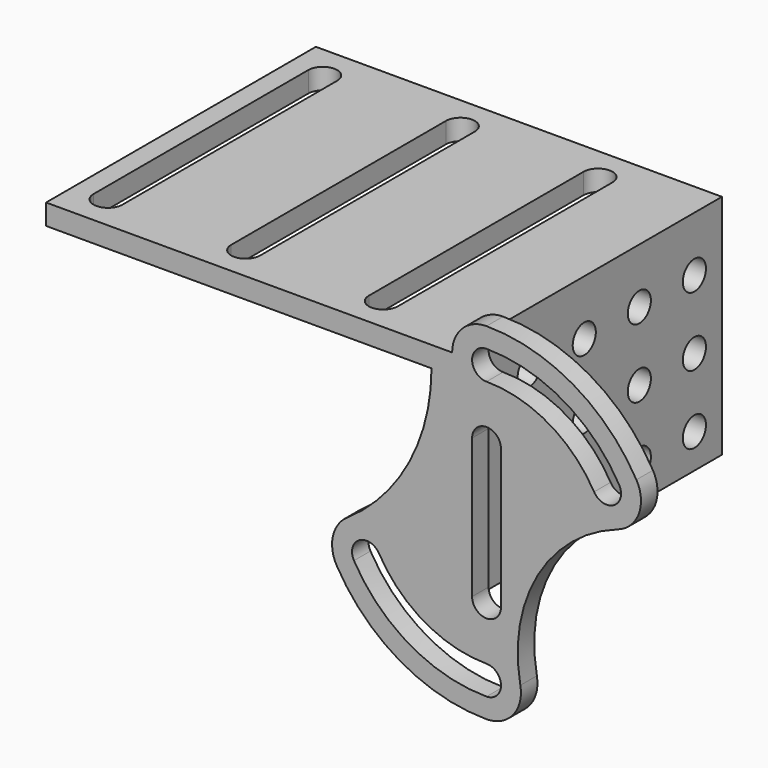
from build123d import *

# Parameters (mm, degrees)
PAD037_DEPTH      = 46
PAD037_DEPTH_BACK = 3
PAD038_DEPTH      = 3
POCKET016_DEPTH   = 10
SKETCH066_R       = 2.1
POCKET023_DEPTH   = 5


with BuildPart() as tentingleg:
    # Sketch054 → Pad037 (new body, two sides)
    with BuildSketch(Plane.XZ) as pad037_sk:
        Polygon((-55, -1), (-5, -1), (1, -1), (1, -31), (3.9999999999, -31), (3.9999999999, -1), (3.9999999999, 2), (-5, 2), (-55, 2), align=None)
    extrude(amount=PAD037_DEPTH)
    extrude(pad037_sk.sketch, amount=-PAD037_DEPTH_BACK)

    # Sketch055 → Pad038 (join)
    with BuildSketch(Plane.XZ):
        with BuildLine():
            ThreePointArc((8.9999999999, -43.2857142857), (12.8523729567, -41.4730678277), (13.9115498355, -37.3494033264))
            ThreePointArc((28.0891318316, -12.7931109807), (16.4349866323, -22.4354486765), (13.9115498355, -37.3494033264))
            ThreePointArc((28.0891318316, -12.7931109807), (31.130741607, -9.8140046459), (30.7743530093, -5.5714285714))
            ThreePointArc((30.7743530093, -5.5714285714), (21.5714285713, 3.6314958666), (8.9999999999, 7))
            ThreePointArc((8.9999999999, 7), (5.464466094, 5.5355339059), (3.9999999999, 2))
            Line((3.9999999999, 2), (1, -1))
            ThreePointArc((-11.2463328898, -24.0732475684), (-2.2513043788, -14.0608903085), (1, -1))
            ThreePointArc((-11.2463328898, -24.0732475684), (-13.3169087301, -27.0931421371), (-12.7743530095, -30.7142857143))
            ThreePointArc((-12.7743530095, -30.7142857143), (-3.5714285715, -39.9172101523), (8.9999999999, -43.2857142857))
        make_face()
        with BuildLine():
            ThreePointArc((6.8999999999, -28.2857142857), (8.9999999999, -30.3857142857), (11.0999999999, -28.2857142857))
            Line((11.0999999999, -28.2857142857), (11.0999999999, -8))
            ThreePointArc((11.0999999999, -8), (8.9999999999, -5.9), (6.8999999999, -8))
            Line((6.8999999999, -8), (6.8999999999, -28.2857142857))
        make_face(mode=Mode.SUBTRACT)
        with BuildLine():
            ThreePointArc((8.9999999999, -40.3857142857), (11.0999999999, -38.2857142857), (8.9999999999, -36.1857142857))
            ThreePointArc((-6.6255726426, -27.1642857143), (-0.0214285715, -33.7684297854), (8.9999999999, -36.1857142857))
            ThreePointArc((-6.6255726426, -27.1642857143), (-9.4942259906, -26.3956323663), (-10.2628793385, -29.2642857143))
            ThreePointArc((-10.2628793385, -29.2642857143), (-2.1214285715, -37.4057364813), (8.9999999999, -40.3857142857))
        make_face(mode=Mode.SUBTRACT)
        with BuildLine():
            ThreePointArc((8.9999999999, 4.1), (6.8999999999, 2), (8.9999999999, -0.1))
            ThreePointArc((24.6255726425, -9.1214285714), (18.0214285713, -2.5172845003), (8.9999999999, -0.1))
            ThreePointArc((24.6255726425, -9.1214285714), (27.4942259904, -9.8900819194), (28.2628793384, -7.0214285714))
            ThreePointArc((28.2628793384, -7.0214285714), (20.1214285713, 1.1200221956), (8.9999999999, 4.1))
        make_face(mode=Mode.SUBTRACT)
    extrude(amount=-PAD038_DEPTH)

    # Sketch056 → Pocket016 (cut, symmetric)
    with BuildSketch(Plane.XY):
        with BuildLine():
            ThreePointArc((-47.9, -2), (-50, 0.1), (-52.1, -2))
            Line((-52.1, -2), (-52.1, -41))
            ThreePointArc((-52.1, -41), (-50, -43.1), (-47.9, -41))
            Line((-47.9, -41), (-47.9, -2))
        make_face()
        with BuildLine():
            ThreePointArc((-27.9, -2), (-30, 0.1), (-32.1, -2))
            Line((-32.1, -2), (-32.1, -41))
            ThreePointArc((-32.1, -41), (-30, -43.1), (-27.9, -41))
            Line((-27.9, -41), (-27.9, -2))
        make_face()
        with BuildLine():
            ThreePointArc((-7.9, -2), (-10, 0.1), (-12.1, -2))
            Line((-12.1, -2), (-12.1, -41))
            ThreePointArc((-12.1, -41), (-10, -43.1), (-7.9, -41))
            Line((-7.9, -41), (-7.9, -2))
        make_face()
    extrude(amount=POCKET016_DEPTH, both=True, mode=Mode.SUBTRACT)

    # Sketch066 (on Face45 of Pocket016) → Pocket023 (cut)
    with BuildSketch(Plane(origin=(3.9999999999, 0, 0), x_dir=(0, 0, 1), z_dir=(1, 0, 0))):
        with Locations((-26, 41)):
            Circle(SKETCH066_R)
        with Locations((-16, 31)):
            Circle(SKETCH066_R)
        with Locations((-16, 21)):
            Circle(SKETCH066_R)
        with Locations((-16, 41)):
            Circle(SKETCH066_R)
        with Locations((-6, 31)):
            Circle(SKETCH066_R)
        with Locations((-6, 41)):
            Circle(SKETCH066_R)
        with Locations((-26, 31)):
            Circle(SKETCH066_R)
        with Locations((-26, 21)):
            Circle(SKETCH066_R)
        with Locations((-26, 11)):
            Circle(SKETCH066_R)
        with Locations((-16, 11)):
            Circle(SKETCH066_R)
        with Locations((-6, 11)):
            Circle(SKETCH066_R)
        with Locations((-6, 21)):
            Circle(SKETCH066_R)
    extrude(amount=-POCKET023_DEPTH, mode=Mode.SUBTRACT)


with BuildPart() as tentingleg_1:
    # Body012 placement: moved
    add(tentingleg.part.moved(Location((140, 47, 0))))


with BuildPart() as part_mirroring:
    # Part__Mirroring: instance of TentingLeg
    add(tentingleg_1.part.mirror(Plane(origin=(119.6685180664, 0, -14.4371900558), x_dir=(1, 0, 0), z_dir=(0, 1, -1.192e-07))))


solid = part_mirroring.part
